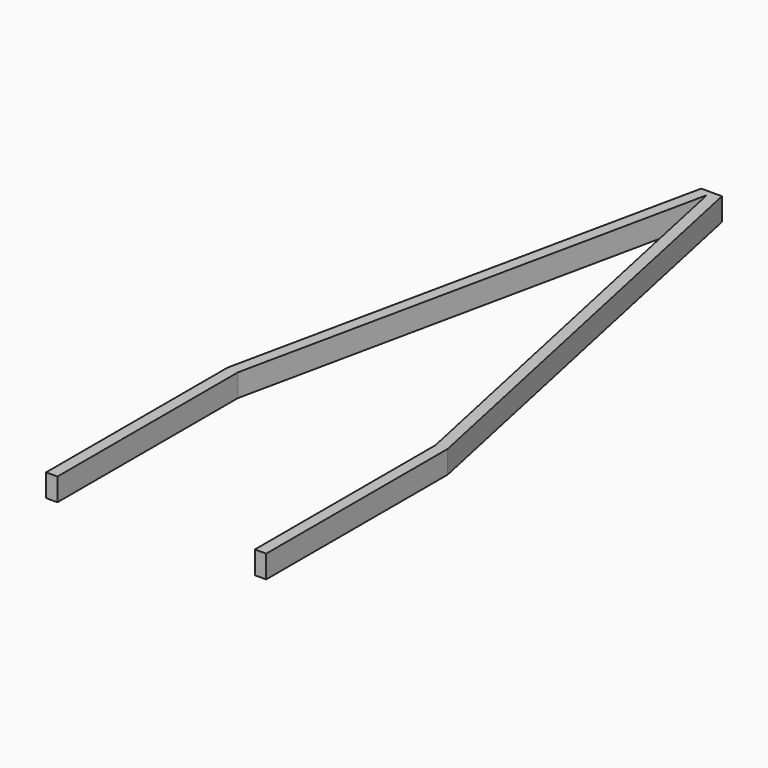
from build123d import *

# Parameters (mm, degrees)
F1_DEPTH = 100


with BuildPart() as f1:
    # F0 (on Top) → F1 (new body)
    with BuildSketch(Plane.XY):
        Polygon((-485, 0), (-485, -1000), (-435, -1000), (-435, -5.273995), (0, 2033.788505), (435, -5.273995), (435, -1000), (485, -1000), (485, 0), (45.598297, 2059.695482), (-45.598297, 2059.695482), align=None)
    extrude(amount=-F1_DEPTH)


solid = f1.part
